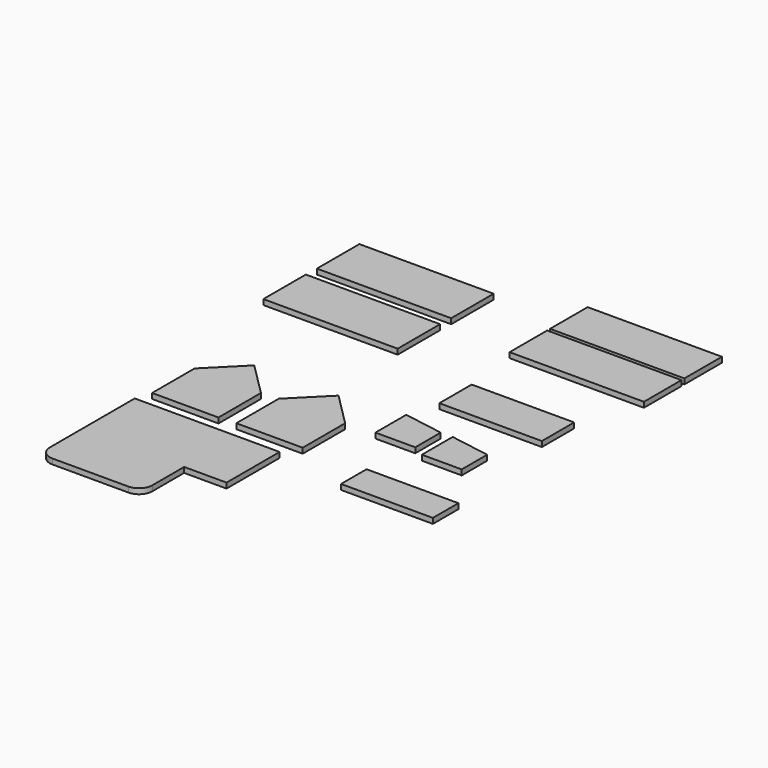
from build123d import *

# Parameters (mm, degrees)
F6_W      = 25
F6_H      = 20
F3_W      = 50.592
F3_H      = 17.678
F4_W      = 25
F4_H      = 20
F0_W      = 50.592
F0_H      = 20
F10_W     = 34.612
F10_H     = 12
F5_W      = 15
F5_H      = 12
F1_W      = 50.592
F1_H      = 20
F8_W      = 15
F8_H      = 12
F9_W      = 38.612
F9_H      = 15.207
F2_W      = 50.592
F2_H      = 17.678
F11_DEPTH = 2


with BuildPart() as f11:
    # F6 (on Top) + F3 (on Top) + F4 (on Top) + F0 (on Top) + F10 (on Top) + F5 (on Top) + F1 (on Top) + F8 (on Top) + F9 (on Top) + F2 (on Top) + F7 (on Top) → F11 (new body)
    with BuildSketch(Plane.XY):
        Polygon((-8.89, -17.213838), (-21.39, -29.713838), (3.61, -29.713838), align=None)
        with Locations((-8.89, -39.713838)):
            Rectangle(F6_W, F6_H)
    with BuildSketch(Plane.XY):
        with Locations((38.411512, 44.686862)):
            Rectangle(F3_W, F3_H)
    with BuildSketch(Plane.XY):
        Polygon((-40.272642, -17.650549), (-52.772642, -30.150549), (-27.772642, -30.150549), align=None)
        with Locations((-40.272642, -40.150549)):
            Rectangle(F4_W, F4_H)
    with BuildSketch(Plane.XY):
        with Locations((-39.113393, 51.998114)):
            Rectangle(F0_W, F0_H)
    with BuildSketch(Plane.XY):
        with Locations((44.145707, -54.687744)):
            Rectangle(F10_W, F10_H)
    with BuildSketch(Plane.XY):
        Polygon((33.773585, -16.782578), (33.773585, -19.282578), (48.773585, -19.282578), align=None)
        with Locations((41.273585, -25.282578)):
            Rectangle(F5_W, F5_H)
    with BuildSketch(Plane.XY):
        with Locations((-39.285385, 27.005472)):
            Rectangle(F1_W, F1_H)
    with BuildSketch(Plane.XY):
        with Locations((21.800096, -22.814835)):
            Rectangle(F8_W, F8_H)
        Polygon((14.300096, -14.314835), (14.300096, -16.814835), (29.300096, -16.814835), align=None)
    with BuildSketch(Plane.XY):
        with Locations((36.594469, 5.158966)):
            Rectangle(F9_W, F9_H)
    with BuildSketch(Plane.XY):
        with Locations((38.411508, 63.749493)):
            Rectangle(F2_W, F2_H)
    with BuildSketch(Plane.XY):
        Polygon((0, -56.057269), (-54.592, -56.057269), (-54.592, -81.057269), (-15.98, -81.057269), (0, -81.057269), align=None)
        with BuildLine():
            Line((-15.98, -81.057269), (-54.592, -81.057269))
            Line((-54.592, -81.057269), (-54.592, -96.057269))
            ThreePointArc((-54.592, -96.057269), (-53.127534, -99.592803), (-49.592, -101.057269))
            Line((-49.592, -101.057269), (-20.98, -101.057269))
            ThreePointArc((-20.98, -101.057269), (-17.444466, -99.592803), (-15.98, -96.057269))
            Line((-15.98, -96.057269), (-15.98, -81.057269))
        make_face()
    extrude(amount=F11_DEPTH)


solid = f11.part
